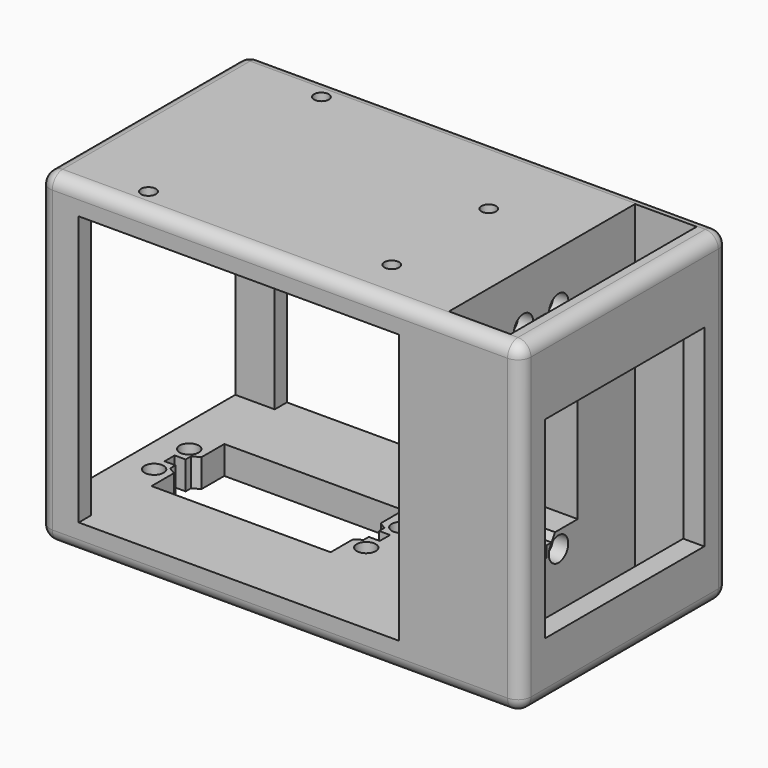
from build123d import *

# Parameters (mm, degrees)
SKETCH041_R              = 2.2
PAD010_DEPTH             = 20
SKETCH042_R              = 2.2
PAD011_DEPTH             = 20
SKETCH033_R              = 1.7
EXTRUDE002_DEPTH         = 10
SKETCH035_W              = 111
SKETCH035_H              = 60
PAD009_DEPTH             = 75
SKETCH036_W              = 73.889809
SKETCH036_H              = 62.1632
POCKET002008007007_DEPTH = 65
SKETCH037_W              = 53
SKETCH037_H              = 62.1458
POCKET002008007008_DEPTH = 10
SKETCH038_W              = 14.2
SKETCH038_H              = 53.6532
POCKET002008007009_DEPTH = 90
SKETCH039_W              = 45.91896
SKETCH039_H              = 44.45
POCKET002008007010_DEPTH = 15
SKETCH043_R              = 2.8
POCKET002008007011_DEPTH = 3.5
FILLET001008003_R        = 3


with BuildPart() as obj1:
    # Sketch041 → Pad010 (new body)
    with BuildSketch(Plane(origin=(82, 118.75, 168.7), x_dir=(0, 0, 1), z_dir=(1, 0, 0))):
        with Locations((-105.7463, 94.0605)):
            Circle(SKETCH041_R)
        with Locations((-105.7463, 83.9412)):
            Circle(SKETCH041_R)
        with Locations((-154.675, 83.9412)):
            Circle(SKETCH041_R)
        with Locations((-154.675, 94.0605)):
            Circle(SKETCH041_R)
        Polygon((-150.939961, 99.468416), (-109.632261, 99.468416), (-109.632261, 93), (-108, 92), (-108, 90.4953), (-105.472476, 90.4953), (-105.472476, 87.528957), (-108, 87.528957), (-108, 86), (-109.647222, 85), (-109.647222, 78.468416), (-150.954922, 78.468416), (-150.954922, 85), (-152.630008, 86.000023), (-152.630008, 87.528976), (-155.157516, 87.528976), (-155.157516, 90.45154), (-152.630008, 90.45154), (-152.630008, 92.000023), (-150.939961, 93), align=None)
    extrude(amount=PAD010_DEPTH)


with BuildPart() as obj2:
    # Sketch042 → Pad011 (new body)
    with BuildSketch(Plane(origin=(161.4, 118.75, 8), x_dir=(1, 0, 0), z_dir=(0, 0, -1))):
        with Locations((-105.7463, 94.0605)):
            Circle(SKETCH042_R)
        with Locations((-105.7463, 83.9412)):
            Circle(SKETCH042_R)
        with Locations((-154.675, 83.9412)):
            Circle(SKETCH042_R)
        with Locations((-154.675, 94.0605)):
            Circle(SKETCH042_R)
        Polygon((-150.939961, 99.468416), (-109.632261, 99.468416), (-109.632261, 93), (-108, 92), (-108, 90.4953), (-105.472476, 90.4953), (-105.472476, 87.528957), (-108, 87.528957), (-108, 86), (-109.647222, 85), (-109.647222, 78.468416), (-150.954922, 78.468416), (-150.954922, 85), (-152.630008, 86.000023), (-152.630008, 87.528976), (-155.157516, 87.528976), (-155.157516, 90.45154), (-152.630008, 90.45154), (-152.630008, 92.000023), (-150.939961, 93), align=None)
    extrude(amount=PAD011_DEPTH)


with BuildPart() as holes_servos_and_arduino:
    # Sketch033 → Extrude002 (new body)
    with BuildSketch(Plane.XY.offset(60)):
        with Locations((21.7411, 54.149063)):
            Circle(SKETCH033_R)
        with Locations((20.470995, 5.88126)):
            Circle(SKETCH033_R)
        with Locations((72.541618, 38.91581)):
            Circle(SKETCH033_R)
        with Locations((72.553482, 10.931391)):
            Circle(SKETCH033_R)
    extrude(amount=EXTRUDE002_DEPTH)


with BuildPart() as holes_servos_and_arduino_1:
    # Extrude002 placement: moved
    add(holes_servos_and_arduino.part.moved(Location((0, 0, 7))))

    # Fusion009003005002: union obj1, obj2
    add(obj1.part)
    add(obj2.part)


with BuildPart() as obj3:
    # Sketch035 → Pad009 (new body)
    with BuildSketch(Plane.XY):
        with Locations((55.5, 30)):
            Rectangle(SKETCH035_W, SKETCH035_H)
    extrude(amount=PAD009_DEPTH)

    # Sketch036 → Pocket002008007007 (cut)
    with BuildSketch(Plane.XZ):
        with Locations((46.039744, 37.56885)):
            Rectangle(SKETCH036_W, SKETCH036_H)
    extrude(amount=-POCKET002008007007_DEPTH, mode=Mode.SUBTRACT)

    # Sketch037 → Pocket002008007008 (cut)
    with BuildSketch(Plane(origin=(0, 0, 0), x_dir=(0, -1, 0), z_dir=(-1, 0, 0))):
        with Locations((-30, 37.56015)):
            Rectangle(SKETCH037_W, SKETCH037_H)
    extrude(amount=-POCKET002008007008_DEPTH, mode=Mode.SUBTRACT)

    # Sketch038 → Pocket002008007009 (cut)
    with BuildSketch(Plane.XY.offset(75)):
        with Locations((99.0507, 30)):
            Rectangle(SKETCH038_W, SKETCH038_H)
    extrude(amount=-POCKET002008007009_DEPTH, mode=Mode.SUBTRACT)

    # Sketch039 → Pocket002008007010 (cut)
    with BuildSketch(Plane.YZ.offset(111)):
        with Locations((30, 35.4627)):
            Rectangle(SKETCH039_W, SKETCH039_H)
    extrude(amount=-POCKET002008007010_DEPTH, mode=Mode.SUBTRACT)

    # Sketch043 → Pocket002008007011 (cut)
    with BuildSketch(Plane.YZ.offset(91.9507)):
        with Locations((24.666075, 62.980072)):
            Circle(SKETCH043_R)
        with Locations((34.802075, 62.980072)):
            Circle(SKETCH043_R)
        with Locations((24.666075, 13.932672)):
            Circle(SKETCH043_R)
        with Locations((34.745975, 13.932672)):
            Circle(SKETCH043_R)
    extrude(amount=-POCKET002008007011_DEPTH, mode=Mode.SUBTRACT)

    # Cut003: cut holes_servos_and_arduino
    add(holes_servos_and_arduino_1.part, mode=Mode.SUBTRACT)

    # Fillet001008003
    fillet001008003_edges = [obj3.edges().sort_by_distance(p)[0] for p in [
        (0, 0, 37.5),
        (55.5, 0, 0),
        (55.5, 0, 75),
        (111, 0, 37.5),
        (0, 60, 37.5),
        (0, 30, 0),
        (0, 30, 75),
        (111, 30, 0),
        (55.5, 60, 0),
        (111, 30, 75),
        (55.5, 60, 75),
        (111, 60, 37.5),
    ]]
    fillet(fillet001008003_edges, radius=FILLET001008003_R)


solid = obj3.part
